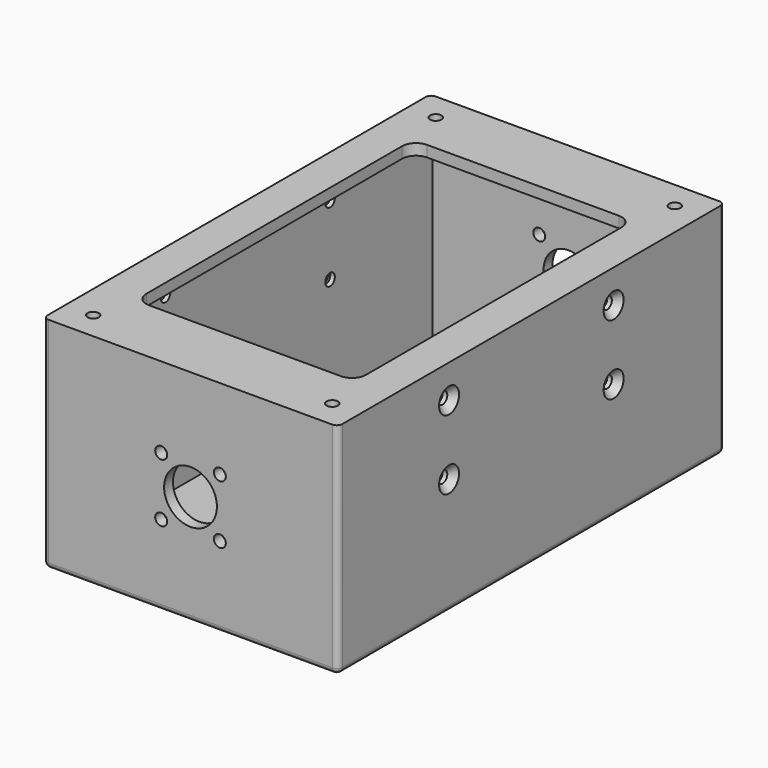
from build123d import *

# Parameters (mm, degrees)
F0_W            = 106
F0_H            = 75
F1_DEPTH        = 174
F2_W            = 106
F2_H            = 174
F3_DEPTH        = 4
F4_W            = 98
F4_H            = 166
F5_DEPTH        = 71
F7_D            = 4.3
F7_DEPTH        = 30
F7_CSINK_D      = 9
F7_CSINK_ANGLE  = 90
F10_D           = 4.3
F10_DEPTH       = 30
F12_D           = 4.3
F12_DEPTH       = 30
F13_D           = 4.3
F13_DEPTH       = 30
F13_CSINK_D     = 9
F13_CSINK_ANGLE = 90
F15_D           = 4.1
F15_DEPTH       = 30
F16_D           = 19
F16_DEPTH       = 40
F18_D           = 18
F18_DEPTH       = 40
F19_R           = 2


with BuildPart() as f1:
    # F0 (on Front) → F1 (new body)
    with BuildSketch(Plane.XZ):
        with Locations((53, 37.5)):
            Rectangle(F0_W, F0_H)
    extrude(amount=F1_DEPTH)

    # F2 (on face) → F3 (join)
    with BuildSketch(Plane.XY.offset(75)):
        with Locations((53, -87)):
            Rectangle(F2_W, F2_H)
        with BuildLine():
            Line((87.5, -149.5), (18.5, -149.5))
            ThreePointArc((18.5, -149.5), (14.964466, -148.035534), (13.5, -144.5))
            Line((13.5, -144.5), (13.5, -29.5))
            ThreePointArc((13.5, -29.5), (14.964466, -25.964466), (18.5, -24.5))
            Line((18.5, -24.5), (87.5, -24.5))
            ThreePointArc((87.5, -24.5), (91.035534, -25.964466), (92.5, -29.5))
            Line((92.5, -29.5), (92.5, -144.5))
            ThreePointArc((92.5, -144.5), (91.035534, -148.035534), (87.5, -149.5))
        make_face(mode=Mode.SUBTRACT)
    extrude(amount=F3_DEPTH)

    # F4 (on face) → F5 (cut)
    with BuildSketch(Plane.XY.offset(75)):
        with Locations((53, -87)):
            Rectangle(F4_W, F4_H)
    extrude(amount=-F5_DEPTH, mode=Mode.SUBTRACT)

    # F7
    with Locations(Plane.YZ.offset(106)):
        with Locations((-124, 67), (-124, 42), (-50, 67), (-50, 42)):
            CounterSinkHole(F7_D / 2, F7_CSINK_D / 2, depth=F7_DEPTH, counter_sink_angle=F7_CSINK_ANGLE)

    # F10
    with Locations(Plane.XZ.offset(174)):
        with Locations((42.45, 50.05), (42.45, 28.95), (63.55, 50.05), (63.55, 28.95)):
            Hole(F10_D / 2, depth=F10_DEPTH)

    # F12
    with Locations(Plane(origin=(0, 0, 0), x_dir=(-1, 0, 0), z_dir=(0, 1, 0))):
        with Locations((-63.55, 50.05), (-63.55, 28.95), (-42.45, 50.05), (-42.45, 28.95)):
            Hole(F12_D / 2, depth=F12_DEPTH)

    # F13
    with Locations(Plane(origin=(0, 0, 0), x_dir=(0, -1, 0), z_dir=(-1, 0, 0))):
        with Locations((50, 67), (50, 42), (124, 67), (124, 42)):
            CounterSinkHole(F13_D / 2, F13_CSINK_D / 2, depth=F13_DEPTH, counter_sink_angle=F13_CSINK_ANGLE)

    # F15
    with Locations(Plane.XY.offset(79)):
        with Locations((10, -10), (96, -10), (10, -164), (96, -164)):
            Hole(F15_D / 2, depth=F15_DEPTH)

    # F16
    with Locations(Plane.XZ.offset(174)):
        with Locations((53, 39.5)):
            Hole(F16_D / 2, depth=F16_DEPTH)

    # F18
    with Locations(Plane(origin=(0, 0, 0), x_dir=(-1, 0, 0), z_dir=(0, 1, 0))):
        with Locations((-53, 39.5)):
            Hole(F18_D / 2, depth=F18_DEPTH)

    # F19
    f19_edges = [f1.edges().sort_by_distance(p)[0] for p in [
        (0, 0, 39.5),
        (106, 0, 39.5),
        (106, -174, 39.5),
        (0, -174, 39.5),
        (53, -174, 0),
        (0, -87, 0),
        (53, 0, 0),
        (106, -87, 0),
    ]]
    fillet(f19_edges, radius=F19_R)


solid = f1.part
